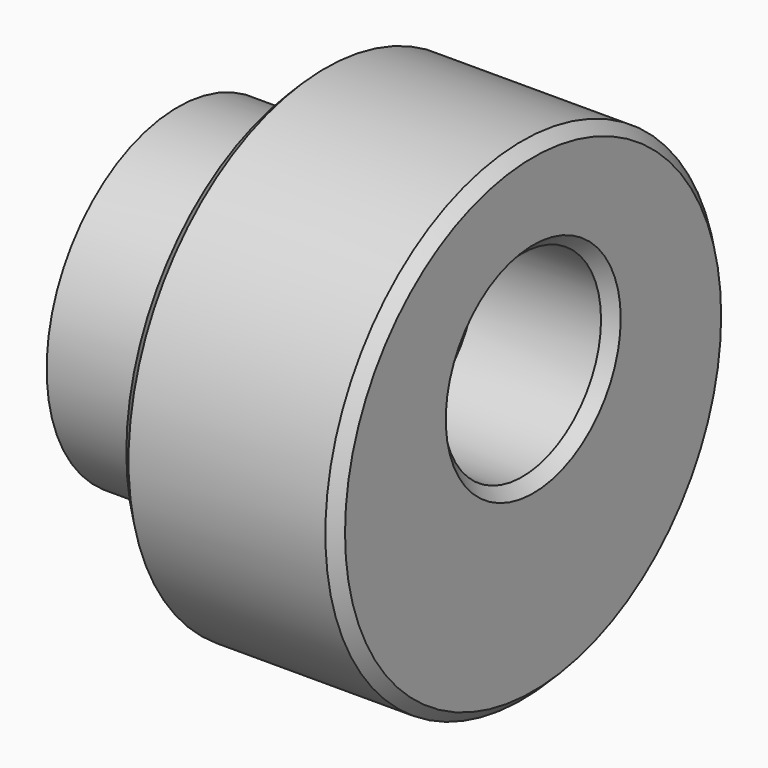
from build123d import *

# Parameters (mm, degrees)
SKETCH005_R             = 6
SKETCH005_R_2           = 2.2
PAD002_DEPTH            = 5
SKETCH006_R             = 9
SKETCH006_R_2           = 2.2
PAD003_DEPTH            = 8
SKETCH007_R             = 3.6
POCKET_DEPTH            = 5
CHAMFER002_SIZE         = 0.4
BODY002_PLACEMENT_ANGLE = 90


with BuildPart() as part:
    # Sketch005 → Pad002 (new body)
    with BuildSketch(Plane.XZ):
        with Locations((66.64711, 33.3637672875)):
            Circle(SKETCH005_R)
        with Locations((66.64711, 34.8637672875)):
            Circle(SKETCH005_R_2, mode=Mode.SUBTRACT)
    extrude(amount=PAD002_DEPTH)

    # Sketch006 (on Face4 of Pad002) → Pad003 (join)
    with BuildSketch(Plane.XZ.offset(5)):
        with Locations((66.641708, 33.373905)):
            Circle(SKETCH006_R)
        with Locations((66.641708, 34.873905)):
            Circle(SKETCH006_R_2, mode=Mode.SUBTRACT)
    extrude(amount=PAD003_DEPTH)

    # Sketch007 (on Face8 of Pad003) → Pocket (cut)
    with BuildSketch(Plane.XZ.offset(13)):
        with Locations((66.648621, 35.148872)):
            Circle(SKETCH007_R)
    extrude(amount=-POCKET_DEPTH, mode=Mode.SUBTRACT)

    # Chamfer002
    chamfer002_edges = [part.edges().sort_by_distance(p)[0] for p in [
        (57.641708, -13, 33.373905),
        (57.641708, -5, 33.373905),
        (63.048621, -13, 35.148872),
    ]]
    chamfer(chamfer002_edges, length=CHAMFER002_SIZE)


with BuildPart() as part_1:
    # Body001 placement: moved
    add(part.part.moved(Location((0, -3, 0))))


with BuildPart() as part_2:
    # Clone placement: moved
    add(part_1.part.moved(Location((0, 3, 0))))


with BuildPart() as part_3:
    # Body002 placement: moved
    add(part_2.part.moved(Location((94, -15.33, -2.61))).rotate(Axis((94, -15.33, -2.61), (0, 0, 1)), BODY002_PLACEMENT_ANGLE))


solid = part_3.part
